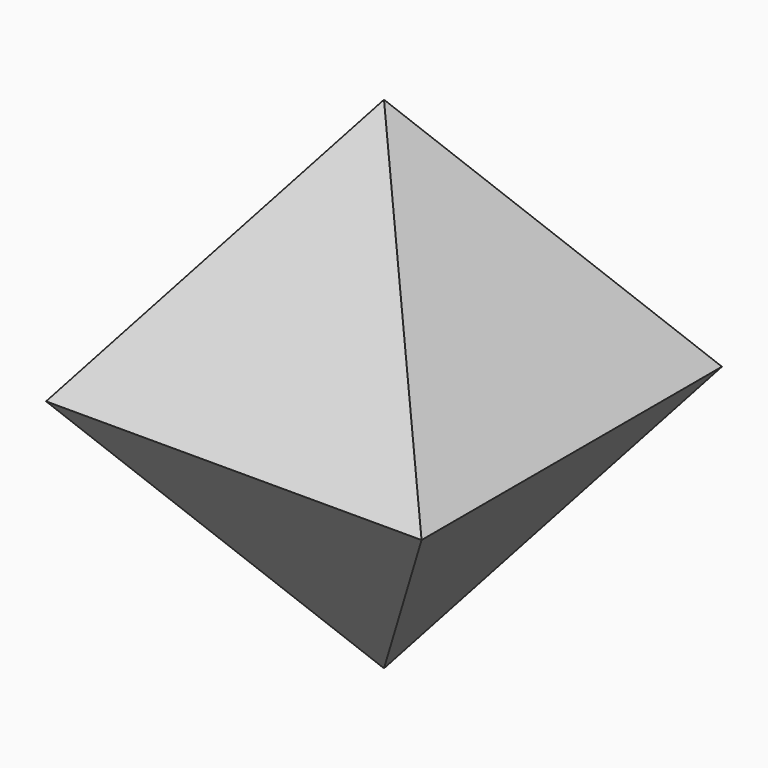
from build123d import *

# Parameters (mm, degrees)
F1_W      = 609.6
F1_H      = 609.6
F7_FACE_W = 609.6
F7_FACE_H = 609.6


with BuildPart() as f7:
    # F1 (on Top) → F7 section 0
    with BuildSketch(Plane.XY, mode=Mode.PRIVATE) as f7_s0:
        Rectangle(F1_W, F1_H)
    loft([f7_s0.sketch, Vertex(0, 0, 406.4)])

    # F7_face (on face) → F8 section 0
    with BuildSketch(Plane(origin=(0, 0, 0), x_dir=(1, 0, 0), z_dir=(0, 0, -1)), mode=Mode.PRIVATE) as f8_s0:
        Rectangle(F7_FACE_W, F7_FACE_H)
    loft([f8_s0.sketch, Vertex(0, 0, -406.4)])


solid = f7.part
